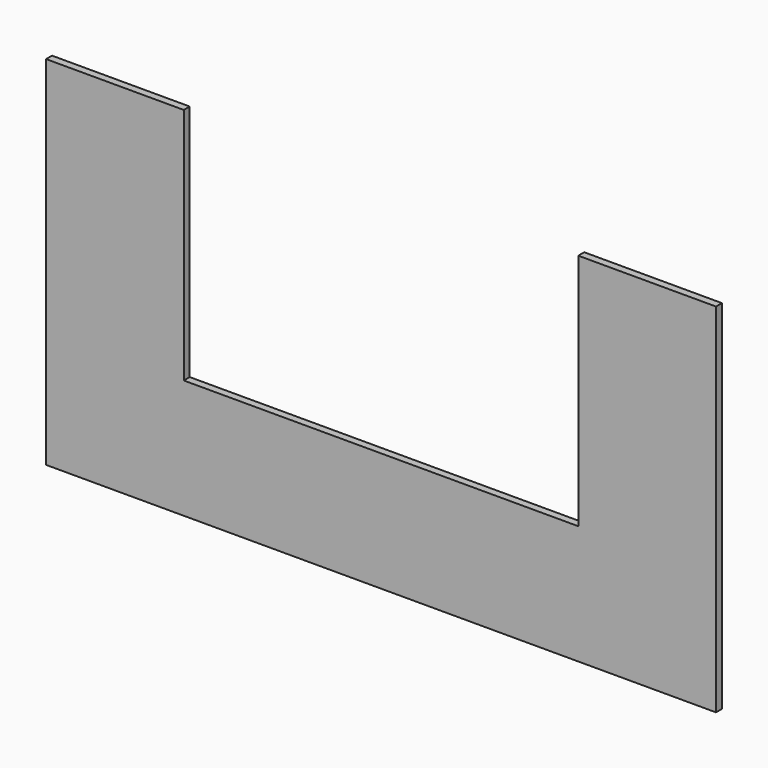
from build123d import *

# Parameters (mm, degrees)
F0_W     = 285.75
F0_H     = 3.175
F1_DEPTH = 152.4
F3_DEPTH = 25.4


with BuildPart() as f1:
    # F0 (on Top) → F1 (new body)
    with BuildSketch(Plane.XY):
        with Locations((142.875, 1.5875)):
            Rectangle(F0_W, F0_H)
    extrude(amount=F1_DEPTH)

    # F2 (on face) → F3 (cut)
    with BuildSketch(Plane.XZ):
        Polygon((58.7375, 50.8), (142.875, 50.8), (227.0125, 50.8), (227.0125, 76.2), (227.0125, 152.4), (58.7375, 152.4), (58.7375, 76.2), align=None)
    extrude(amount=-F3_DEPTH, mode=Mode.SUBTRACT)


solid = f1.part
